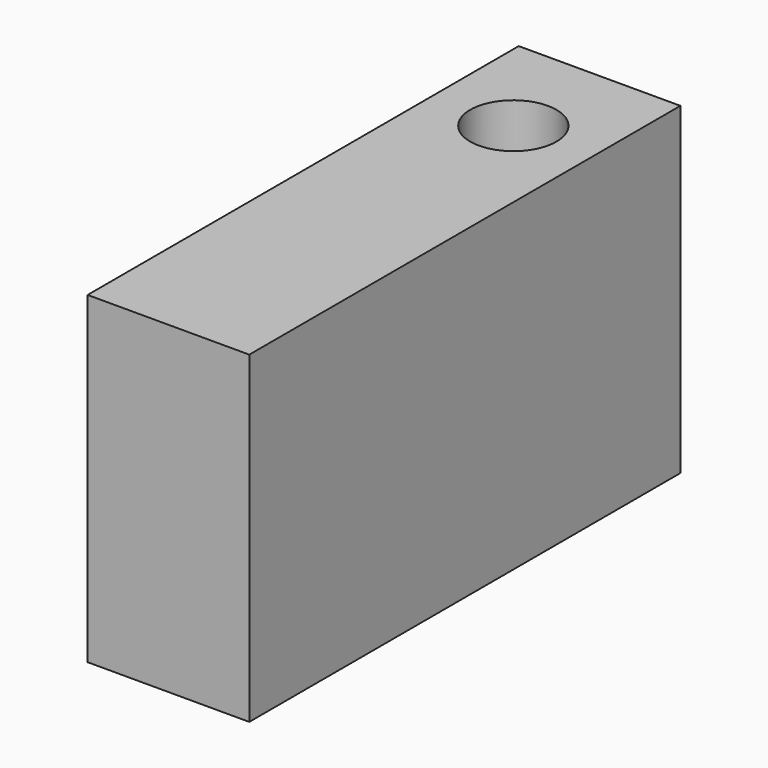
from build123d import *

# Parameters (mm, degrees)
SKETCH_W  = 30
SKETCH_H  = 100
SKETCH_R  = 8
PAD_DEPTH = 60


with BuildPart() as part:
    # Sketch → Pad (new body)
    with BuildSketch(Plane.XY):
        with Locations((15, 50)):
            Rectangle(SKETCH_W, SKETCH_H)
        with Locations((15, 80)):
            Circle(SKETCH_R, mode=Mode.SUBTRACT)
    extrude(amount=PAD_DEPTH)


solid = part.part
